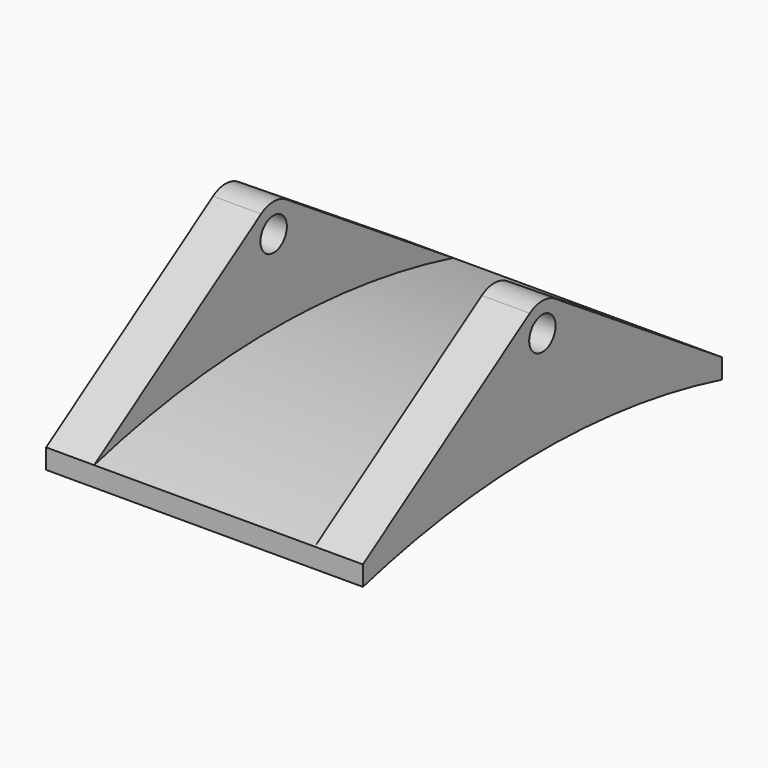
from build123d import *

# Parameters (mm, degrees)
F0_R          = 3.96875
F1_DEPTH      = 76.2
F4_DEPTH      = 26.543
F4_DEPTH_BACK = 26.543


with BuildPart() as f1:
    # F0 (on Right) → F1 (new body)
    with BuildSketch(Plane.YZ):
        with BuildLine():
            Line((-53.975, 4.7625), (-53.975, 0))
            ThreePointArc((-53.975, 0), (0, 6.985), (53.975, 0))
            Line((53.975, 0), (53.975, 4.7625))
            Line((53.975, 4.7625), (3.7789439849, 37.5375718687))
            ThreePointArc((3.7789439849, 37.5375718687), (0, 38.6620478714), (-3.7789439849, 37.5375718687))
            Line((-3.7789439849, 37.5375718687), (-53.975, 4.7625))
        make_face()
        with Locations((0, 31.75)):
            Circle(F0_R, mode=Mode.SUBTRACT)
    extrude(amount=F1_DEPTH)

    # F3 (on offset) → F4 (cut, two sides)
    with BuildSketch(Plane(origin=(38.1, 0, 0), x_dir=(0, -1, 0), z_dir=(-1, 0, 0))) as f4_sk:
        with BuildLine():
            ThreePointArc((3.7789439849, 37.5375718687), (0, 38.6620478714), (-3.7789439849, 37.5375718687))
            Line((-3.7789439849, 37.5375718687), (-53.975, 4.7625))
            ThreePointArc((-53.975, 4.7625), (0, 11.7472640284), (53.975, 4.7625))
            Line((53.975, 4.7625), (3.7789439849, 37.5375718687))
        make_face()
    extrude(amount=F4_DEPTH, mode=Mode.SUBTRACT)
    extrude(f4_sk.sketch, amount=-F4_DEPTH_BACK, mode=Mode.SUBTRACT)


solid = f1.part
